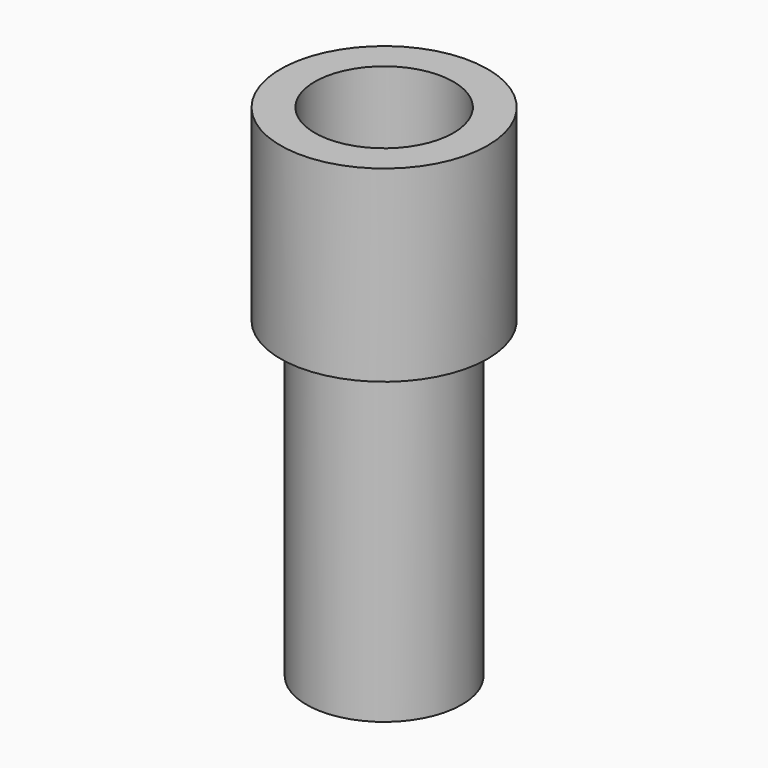
from build123d import *

# Parameters (mm, degrees)
F0_R     = 15.755887
F1_DEPTH = 101.6
F2_R     = 21.017988
F3_DEPTH = 38.1
F4_R     = 14.073652
F5_DEPTH = 101.601


with BuildPart() as f1:
    # F0 (on Top) → F1 (new body)
    with BuildSketch(Plane.XY):
        Circle(F0_R)
    extrude(amount=-F1_DEPTH)

    # F2 (on Top) → F3 (join)
    with BuildSketch(Plane.XY):
        Circle(F2_R)
    extrude(amount=-F3_DEPTH)

    # F4 (on face) → F5 (cut, through all)
    with BuildSketch(Plane.XY):
        Circle(F4_R)
    extrude(amount=-F5_DEPTH, mode=Mode.SUBTRACT)


solid = f1.part
